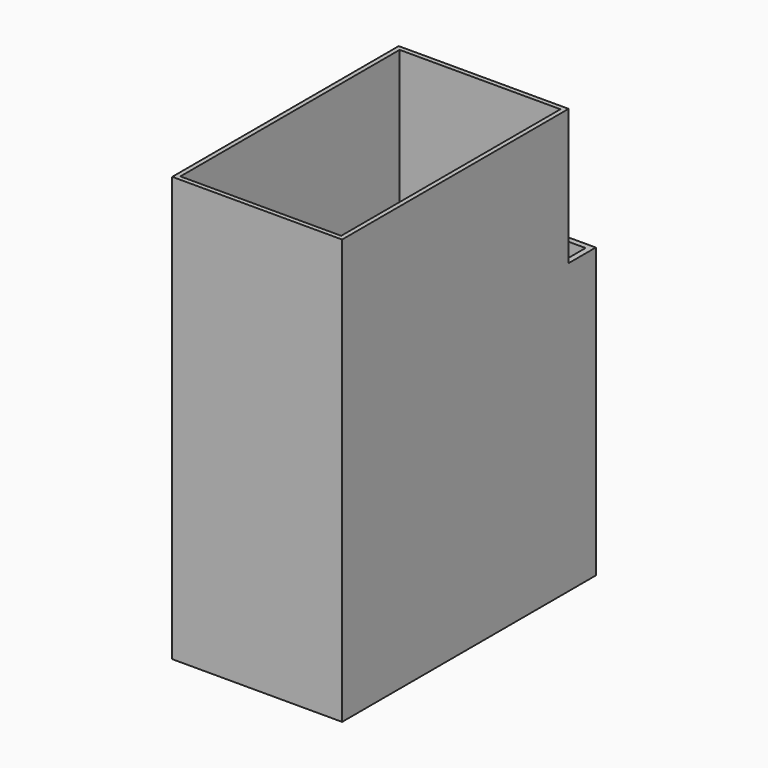
from build123d import *

# Parameters (mm, degrees)
SKETCH_W     = 60
SKETCH_H     = 100
PAD_DEPTH    = 150
THICKNESS_T  = -1.6
SKETCH001_W  = 84
SKETCH001_H  = 40
POCKET_DEPTH = 1.6
PAD001_DEPTH = 10
SKETCH003_W  = 60
SKETCH003_H  = 102
SKETCH003_R  = 20
PAD002_DEPTH = 2
FILLET_R     = 25


with BuildPart() as part:
    # Sketch → Pad (new body)
    with BuildSketch(Plane.XY):
        Rectangle(SKETCH_W, SKETCH_H)
    extrude(amount=PAD_DEPTH)

    # Thickness
    thickness_openings = [part.faces().sort_by_distance(p)[0] for p in [
        (0, 0, 150),
    ]]
    offset(amount=THICKNESS_T, openings=thickness_openings)

    # Sketch001 (on Face4 of Thickness) → Pocket (cut)
    with BuildSketch(Plane(origin=(-30, 0, 0), x_dir=(0, -1, 0), z_dir=(-1, 0, 0))):
        with Locations((0, 28)):
            Rectangle(SKETCH001_W, SKETCH001_H)
    extrude(amount=-POCKET_DEPTH, mode=Mode.SUBTRACT)

    # Sketch002 (on Face6 of Pocket) → Pad001 (join)
    with BuildSketch(Plane(origin=(0, 50, 0), x_dir=(-1, 0, 0), z_dir=(0, 1, 0))):
        Polygon((-30, 102), (-30, 0), (30, 0), (30, 2), (-28, 2), (-28, 102), align=None)
    extrude(amount=PAD001_DEPTH)

    # Sketch003 (on Face19 of Pad001) → Pad002 (join)
    with BuildSketch(Plane(origin=(0, 60, 0), x_dir=(-1, 0, 0), z_dir=(0, 1, 0))):
        with Locations((0, 51)):
            Rectangle(SKETCH003_W, SKETCH003_H)
        with Locations((0, 75)):
            Circle(SKETCH003_R, mode=Mode.SUBTRACT)
        with Locations((0, 25)):
            Circle(SKETCH003_R, mode=Mode.SUBTRACT)
    extrude(amount=PAD002_DEPTH)

    # Fillet
    fillet_edges = [part.edges().sort_by_distance(p)[0] for p in [
        (-30, 61, 102),
    ]]
    fillet(fillet_edges, radius=FILLET_R)


solid = part.part
